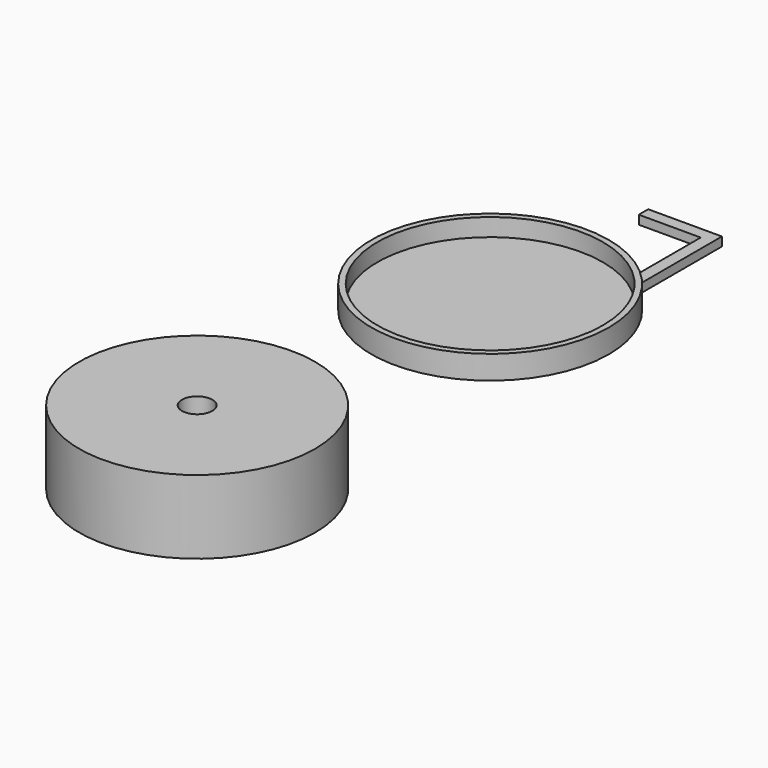
from build123d import *

# Parameters (mm, degrees)
F0_R     = 40.25
F1_DEPTH = 8
F2_R     = 38.25
F3_DEPTH = 6
F5_DEPTH = 3
F7_DEPTH = 3
F8_R     = 40
F9_DEPTH = 25
F10_D    = 10.3


with BuildPart() as f1:
    # F0 (on Top) → F1 (new body)
    with BuildSketch(Plane.XY):
        Circle(F0_R)
    extrude(amount=F1_DEPTH)

    # F2 (on face) → F3 (cut)
    with BuildSketch(Plane.XY.offset(8)):
        Circle(F2_R)
    extrude(amount=-F3_DEPTH, mode=Mode.SUBTRACT)

    # F4 (on face) → F5 (join)
    with BuildSketch(Plane(origin=(0, 0, 0), x_dir=(1, 0, 0), z_dir=(0, 0, -1))):
        with BuildLine():
            ThreePointArc((25, -31.5446112672), (13.2361606309, -38.0114002867), (0, -40.25))
            Line((0, -40.25), (0, -67))
            Line((0, -67), (25, -67))
            Line((25, -67), (25, -31.5446112672))
        make_face()
    extrude(amount=-F5_DEPTH)

    # F6 (on face) → F7 (cut, through all)
    with BuildSketch(Plane.XY.offset(3)):
        with BuildLine():
            Line((21, 63), (0, 63))
            Line((0, 63), (0, 40.25))
            ThreePointArc((0, 40.25), (10.9082296729, 38.743683684), (21, 34.3374795231))
            Line((21, 34.3374795231), (21, 63))
        make_face()
    extrude(amount=-F7_DEPTH, mode=Mode.SUBTRACT)


with BuildPart() as f9:
    # F8 (on Top) → F9 (new body)
    with BuildSketch(Plane.XY):
        with Locations((3.3801544923, -128.4092366695)):
            Circle(F8_R)
    extrude(amount=F9_DEPTH)

    # F10 (through all)
    with Locations(Plane(origin=(0, 0, 0), x_dir=(1, 0, 0), z_dir=(0, 0, -1))):
        with Locations((3.3801544923, 128.4092366695)):
            Hole(F10_D / 2)


solid = Compound([f1.part, f9.part])
